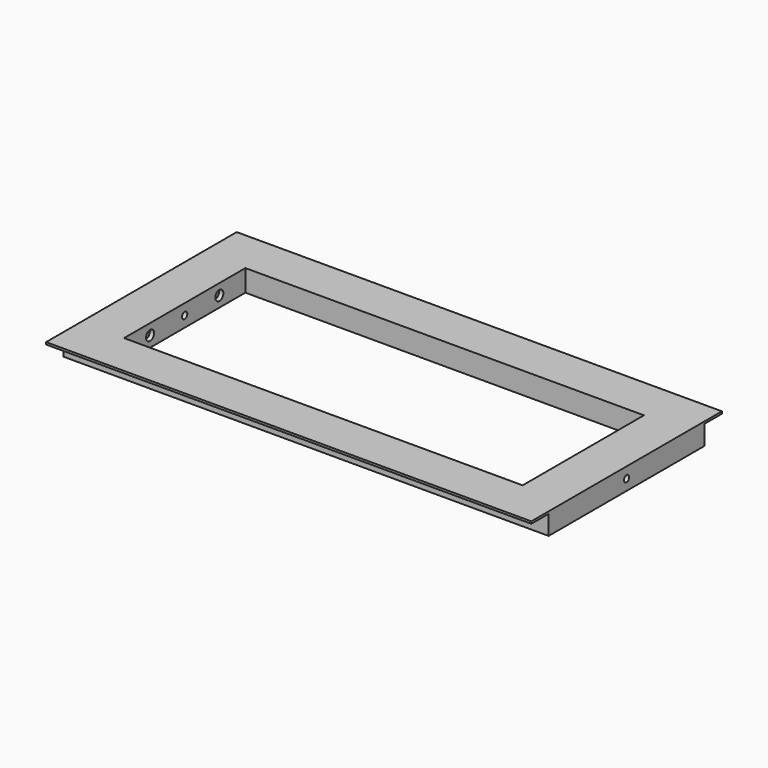
from build123d import *

# Parameters (mm, degrees)
F0_W      = 284.48
F0_H      = 139.7
F1_DEPTH  = 12.7
F2_W      = 233.68
F2_H      = 88.9
F3_DEPTH  = 25.4
F4_R      = 1.905
F5_DEPTH  = 508
F6_R      = 2.921
F7_DEPTH  = 2.5019
F8_R      = 2.921
F9_DEPTH  = 2.5019
F10_W     = 12.7
F10_H     = 11.43
F11_DEPTH = 508
F12_W     = 12.7
F12_H     = 11.43
F13_DEPTH = 508


with BuildPart() as f1:
    # F0 (on Top) → F1 (new body)
    with BuildSketch(Plane.XY):
        Rectangle(F0_W, F0_H)
    extrude(amount=F1_DEPTH)

    # F2 (on face) → F3 (cut)
    with BuildSketch(Plane.XY.offset(12.7)):
        Rectangle(F2_W, F2_H)
    extrude(amount=-F3_DEPTH, mode=Mode.SUBTRACT)

    # F4 (on face) → F5 (cut)
    with BuildSketch(Plane(origin=(-142.24, 0, 0), x_dir=(0, -1, 0), z_dir=(-1, 0, 0))):
        with Locations((0, 6.35)):
            Circle(F4_R)
    extrude(amount=-F5_DEPTH, mode=Mode.SUBTRACT)

    # F6 (on face) → F7 (cut)
    with BuildSketch(Plane.YZ.offset(-116.84)):
        with Locations((-25.4, 6.35)):
            Circle(F6_R)
        with Locations((25.4, 6.35)):
            Circle(F6_R)
    extrude(amount=-F7_DEPTH, mode=Mode.SUBTRACT)

    # F8 (on face) → F9 (cut)
    with BuildSketch(Plane(origin=(116.84, 0, 0), x_dir=(0, -1, 0), z_dir=(-1, 0, 0))):
        with Locations((-25.4, 6.35)):
            Circle(F8_R)
        with Locations((25.4, 6.35)):
            Circle(F8_R)
    extrude(amount=-F9_DEPTH, mode=Mode.SUBTRACT)

    # F10 (on face) → F11 (cut)
    with BuildSketch(Plane.YZ.offset(142.24)):
        with Locations((-63.5, 5.715)):
            Rectangle(F10_W, F10_H)
    extrude(amount=-F11_DEPTH, mode=Mode.SUBTRACT)

    # F12 (on face) → F13 (cut)
    with BuildSketch(Plane.YZ.offset(142.24)):
        with Locations((63.5, 5.715)):
            Rectangle(F12_W, F12_H)
    extrude(amount=-F13_DEPTH, mode=Mode.SUBTRACT)


solid = f1.part
